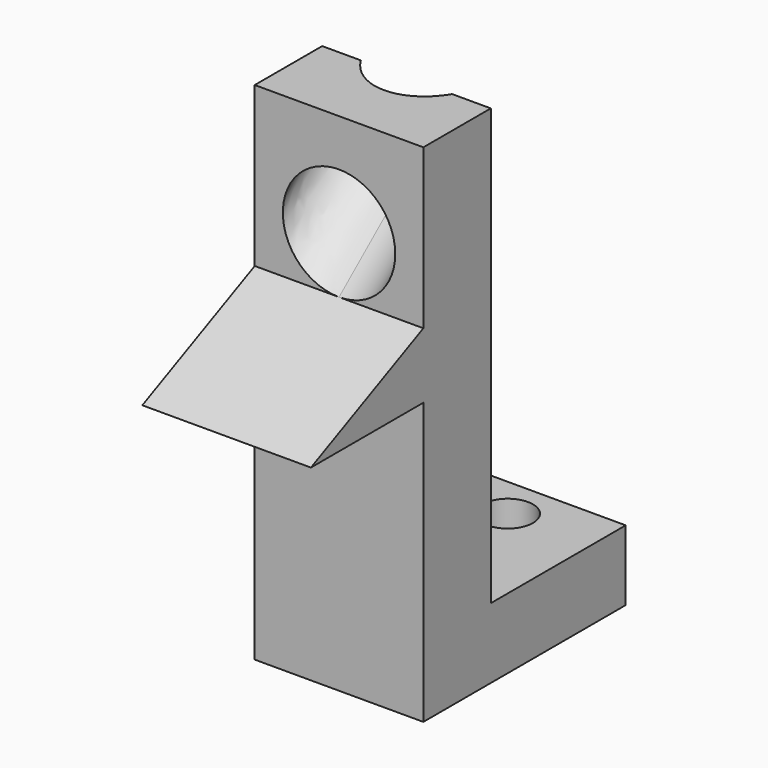
from build123d import *

# Parameters (mm, degrees)
F1_DEPTH = 6
F3_D     = 1.8


with BuildPart() as f1:
    # F0 (on Right) → F1 (new body)
    with BuildSketch(Plane.YZ):
        Polygon((-3, 0), (0, 0), (6, 0), (6, 2.5), (0, 2.5), (0, 13.7304612652), (0, 18), (-3, 18), (-3, 12.3315382908), (-8, 10), (-3, 10), align=None)
    extrude(amount=-F1_DEPTH)

    # F3 (through all)
    with Locations(Plane(origin=(0, 0, 0), x_dir=(1, 0, 0), z_dir=(0, 0, -1))):
        with Locations((-3, -4.5)):
            Hole(F3_D / 2)

    # F7: sweep along a path in F6
    with BuildLine(Plane.YZ) as f7_path:
        Line((-3, 14.3315382908), (0, 16.8315382908))
    # F5 (on face) → F7 (sweep, cut)
    with BuildSketch(Plane.XZ.offset(3)):
        with BuildLine():
            ThreePointArc((-3, 12.3315382908), (-1.5857864376, 12.9173247284), (-1, 14.3315382908))
            ThreePointArc((-1, 14.3315382908), (-4.4142135624, 15.7457518531), (-3, 12.3315382908))
        make_face()
    sweep(path=f7_path.line, mode=Mode.SUBTRACT)


solid = f1.part
